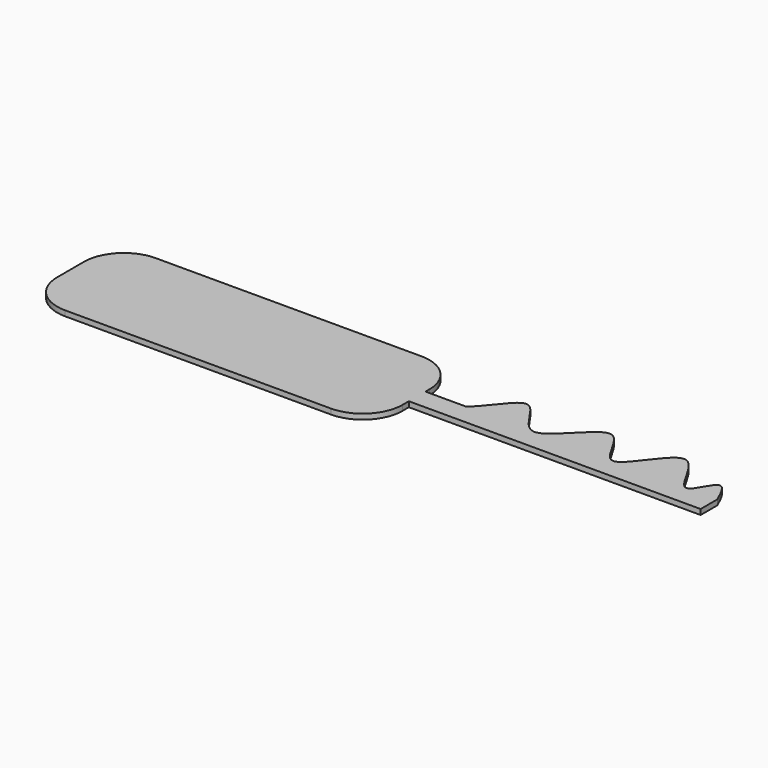
from build123d import *

# Parameters (mm, degrees)
F1_DEPTH = 0.508
F2_R     = 3.81


with BuildPart() as f1:
    # F0 (on Top) → F1 (new body)
    with BuildSketch(Plane.XY):
        with BuildLine():
            add(Edge.make_bspline(
                [(-17.954159528, 22.3714523017), (-16.6212712106, 21.9484789663), (-15.2883828933, 21.5255056309), (-14.1068394296, 22.3714523017)],
                knots=[0, 0, 0, 0, 0.107446743, 0.107446743, 0.107446743, 0.107446743], degree=3))
            Line((-17.954159528, 22.3714523017), (-17.954159528, 20.3765444458))
            Line((-17.954159528, 20.3765444458), (-10.2595193312, 20.3765444458))
            Line((-10.2595193312, 20.3765444458), (-2.5648796, 20.3765444458))
            Line((-2.5648796, 20.3765444458), (5.1297605969, 20.3765444458))
            Line((5.1297605969, 20.3765444458), (9.9745318294, 20.3765444458))
            Line((9.9745318294, 20.3765444458), (9.9745318294, 22.3714523017))
            Line((9.9745318294, 22.3714523017), (7.0518772343, 22.3714523017))
            add(Edge.make_bspline(
                [(6.9821723737, 22.3714523017), (7.0055469702, 22.3687664407), (7.0287801838, 22.3688326843), (7.0518772343, 22.3714523017)],
                knots=[0.8309250787, 0.8309250787, 0.8309250787, 0.8309250787, 0.8343433221, 0.8343433221, 0.8343433221, 0.8343433221], degree=3))
            Line((6.9821723737, 22.3714523017), (0.0308948205, 22.3714523017))
            add(Edge.make_bspline(
                [(0, 22.3714523017), (0.0102637313, 22.3711497325), (0.0205621748, 22.3711515825), (0.0308948205, 22.3714523017)],
                knots=[0.5860814214, 0.5860814214, 0.5860814214, 0.5860814214, 0.5872268419, 0.5872268419, 0.5872268419, 0.5872268419], degree=3))
            Line((0, 22.3714523017), (-7.4855333008, 22.3714523017))
            add(Edge.make_bspline(
                [(-7.552146446, 22.3714523017), (-7.5300578478, 22.3706141695), (-7.5078521234, 22.3706230206), (-7.4855333008, 22.3714523017)],
                knots=[0.3407747887, 0.3407747887, 0.3407747887, 0.3407747887, 0.3427839958, 0.3427839958, 0.3427839958, 0.3427839958], degree=3))
            Line((-7.552146446, 22.3714523017), (-14.1068394296, 22.3714523017))
        make_face()
        Polygon((-17.954159528, 20.3765444458), (-17.954159528, 22.3714523017), (-17.954159528, 26.6462508589), (-51.012609154, 26.6462508589), (-51.012609154, 15.8167593181), (-17.954159528, 15.8167593181), align=None)
        with BuildLine():
            Line((-14.1068394296, 22.3714523017), (-17.954159528, 22.3714523017))
            add(Edge.make_bspline(
                [(-17.954159528, 22.3714523017), (-16.6212712106, 21.9484789663), (-15.2883828933, 21.5255056309), (-14.1068394296, 22.3714523017)],
                knots=[0, 0, 0, 0, 0.107446743, 0.107446743, 0.107446743, 0.107446743], degree=3))
        make_face()
        with BuildLine():
            add(Edge.make_bspline(
                [(-14.1068394296, 22.3714523017), (-12.8093785993, 23.3003920349), (-10.6044743023, 28.1633093033), (-8.8201591851, 22.4195659167), (-7.552146446, 22.3714523017)],
                knots=[0.107446743, 0.107446743, 0.107446743, 0.107446743, 0.2254347348, 0.3407747887, 0.3407747887, 0.3407747887, 0.3407747887], degree=3))
            Line((-14.1068394296, 22.3714523017), (-7.552146446, 22.3714523017))
        make_face()
        with BuildLine():
            Line((-7.4855333008, 22.3714523017), (-7.552146446, 22.3714523017))
            add(Edge.make_bspline(
                [(-7.552146446, 22.3714523017), (-7.5300578478, 22.3706141695), (-7.5078521234, 22.3706230206), (-7.4855333008, 22.3714523017)],
                knots=[0.3407747887, 0.3407747887, 0.3407747887, 0.3407747887, 0.3427839958, 0.3427839958, 0.3427839958, 0.3427839958], degree=3))
        make_face()
        with BuildLine():
            add(Edge.make_bspline(
                [(-7.4855333008, 22.3714523017), (-6.0510432456, 22.4247524065), (-2.4682007935, 28.9104620067), (-1.02295284, 22.4016083963), (0, 22.3714523017)],
                knots=[0.3427839958, 0.3427839958, 0.3427839958, 0.3427839958, 0.4719210722, 0.5860814214, 0.5860814214, 0.5860814214, 0.5860814214], degree=3))
            Line((-7.4855333008, 22.3714523017), (0, 22.3714523017))
        make_face()
        with BuildLine():
            Line((0.0308948205, 22.3714523017), (0, 22.3714523017))
            add(Edge.make_bspline(
                [(0, 22.3714523017), (0.0102637313, 22.3711497325), (0.0205621748, 22.3711515825), (0.0308948205, 22.3714523017)],
                knots=[0.5860814214, 0.5860814214, 0.5860814214, 0.5860814214, 0.5872268419, 0.5872268419, 0.5872268419, 0.5872268419], degree=3))
        make_face()
        with BuildLine():
            add(Edge.make_bspline(
                [(0.0308948205, 22.3714523017), (1.1634028433, 22.4044125866), (4.15934126, 29.4378416527), (6.1742087894, 22.4642914624), (6.9821723737, 22.3714523017)],
                knots=[0.5872268419, 0.5872268419, 0.5872268419, 0.5872268419, 0.7127704763, 0.8309250787, 0.8309250787, 0.8309250787, 0.8309250787], degree=3))
            Line((0.0308948205, 22.3714523017), (6.9821723737, 22.3714523017))
        make_face()
        with BuildLine():
            Line((7.0518772343, 22.3714523017), (6.9821723737, 22.3714523017))
            add(Edge.make_bspline(
                [(6.9821723737, 22.3714523017), (7.0055469702, 22.3687664407), (7.0287801838, 22.3688326843), (7.0518772343, 22.3714523017)],
                knots=[0.8309250787, 0.8309250787, 0.8309250787, 0.8309250787, 0.8343433221, 0.8343433221, 0.8343433221, 0.8343433221], degree=3))
        make_face()
        with BuildLine():
            Line((7.0518772343, 22.3714523017), (9.9745318294, 22.3714523017))
            add(Edge.make_bspline(
                [(7.0518772343, 22.3714523017), (7.6053664613, 22.4342278521), (8.5665762916, 25.5265111314), (9.5017703469, 23.4308538593), (9.9745318294, 22.3714523017)],
                knots=[0.8343433221, 0.8343433221, 0.8343433221, 0.8343433221, 0.9162568494, 1, 1, 1, 1], degree=3))
        make_face()
    extrude(amount=F1_DEPTH)

    # F2
    f2_edges = [f1.edges().sort_by_distance(p)[0] for p in [
        (-17.95416, 26.646251, 0.254),
        (-51.012609, 26.646251, 0.254),
        (-51.012609, 15.816759, 0.254),
        (-17.95416, 15.816759, 0.254),
    ]]
    fillet(f2_edges, radius=F2_R)


solid = f1.part
